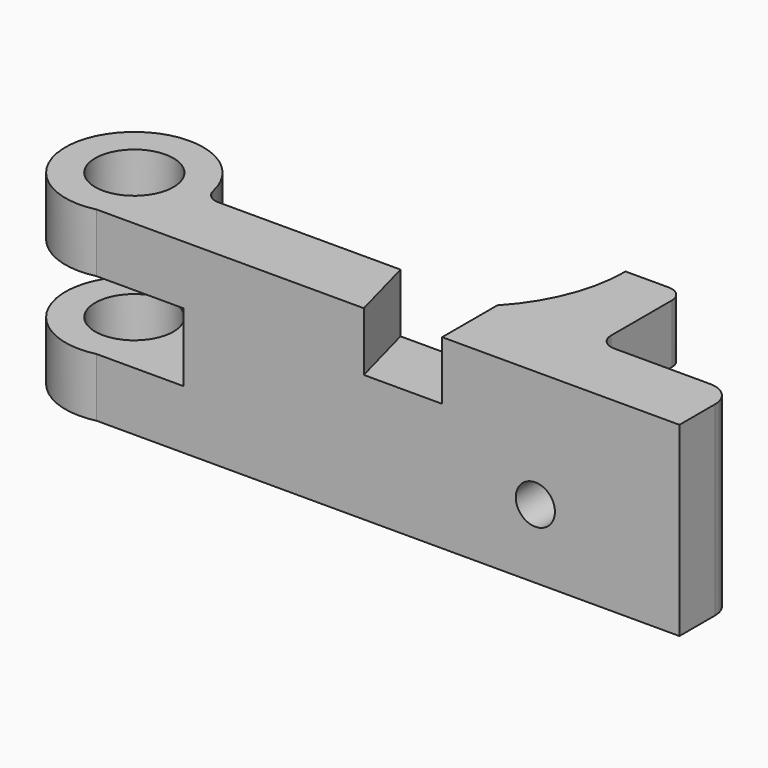
from build123d import *

# Parameters (mm, degrees)
F0_R      = 12.7
F1_DEPTH  = 60.325
F2_R      = 5.08
F3_R      = 7.874
F5_DEPTH  = 19.05
F7_DEPTH  = 41.275
F8_R      = 6.35
F9_DEPTH  = 22.951227039
F10_R     = 5.08
F11_R     = 5.08
F13_W     = 63.8135012672
F13_H     = 22.225
F14_DEPTH = 57.15


with BuildPart() as f1:
    # F0 (on Top) → F1 (new body)
    with BuildSketch(Plane.XY):
        with BuildLine():
            ThreePointArc((-113.8312659101, -44.9580233222), (-153.8868240783, -31.9212818085), (-131.0386, -67.3100233222))
            Line((-131.0386, -67.3100233222), (-44.3288590271, -67.3100233222))
            Line((-44.3288590271, -67.3100233222), (-50.3232590271, -44.9580233222))
            Line((-50.3232590271, -44.9580233222), (-113.8312659101, -44.9580233222))
        make_face()
        with Locations((-136.1752590271, -45.5562503612)):
            Circle(F0_R, mode=Mode.SUBTRACT)
        Polygon((-50.3232590271, -44.9580233222), (-44.3288590271, -67.3100233222), (-18.9288590271, -67.3100233222), (-18.9288590271, -44.9580233222), align=None)
        Polygon((-18.9288590271, -44.9580233222), (-18.9288590271, -67.3100233222), (58.0331409729, -67.3100233222), (58.0331409729, -44.9580233222), (13.9133409729, -44.9580233222), align=None)
        with BuildLine():
            ThreePointArc((-5.1366590271, -10.1600233222), (-8.7108436655, -28.8756656882), (-18.9288590271, -44.9580233222))
            Line((-18.9288590271, -44.9580233222), (13.9133409729, -44.9580233222))
            Line((13.9133409729, -44.9580233222), (13.9133409729, -10.1600233222))
            Line((13.9133409729, -10.1600233222), (-5.1366590271, -10.1600233222))
        make_face()
    extrude(amount=F1_DEPTH)

    # F2
    f2_edges = [f1.edges().sort_by_distance(p)[0] for p in [
        (13.913341, -10.160023, 30.1625),
    ]]
    fillet(f2_edges, radius=F2_R)

    # F3
    f3_edges = [f1.edges().sort_by_distance(p)[0] for p in [
        (58.033141, -44.958023, 30.1625),
    ]]
    fillet(f3_edges, radius=F3_R)

    # F4 (on face) → F5 (cut)
    with BuildSketch(Plane.XY.offset(60.325)):
        Polygon((-18.9288590271, -67.3100233222), (-18.9288590271, -44.9580233222), (-50.3232590271, -44.9580233222), (-44.3288590271, -67.3100233222), align=None)
    extrude(amount=-F5_DEPTH, mode=Mode.SUBTRACT)

    # F6 (on face) → F7 (cut)
    with BuildSketch(Plane(origin=(0, 0, 0), x_dir=(1, 0, 0), z_dir=(0, 0, -1))):
        with BuildLine():
            Line((13.9133409729, 15.2400233222), (13.9133409729, 44.9580233222))
            Line((13.9133409729, 44.9580233222), (-18.9288590271, 44.9580233222))
            ThreePointArc((-18.9288590271, 44.9580233222), (-8.7108436655, 28.8756656882), (-5.1366590271, 10.1600233222))
            Line((-5.1366590271, 10.1600233222), (8.8333409729, 10.1600233222))
            ThreePointArc((8.8333409729, 10.1600233222), (12.4254434213, 11.6479208738), (13.9133409729, 15.2400233222))
        make_face()
    extrude(amount=-F7_DEPTH, mode=Mode.SUBTRACT)

    # F8 (on face) → F9 (cut, through all)
    with BuildSketch(Plane(origin=(0, -44.9580233222, 0), x_dir=(-1, 0, 0), z_dir=(0, 1, 0))):
        with Locations((-11.2971409729, 22.352)):
            Circle(F8_R)
    extrude(amount=-F9_DEPTH, mode=Mode.SUBTRACT)

    # F10
    f10_edges = [f1.edges().sort_by_distance(p)[0] for p in [
        (13.913341, -44.958023, 50.8),
    ]]
    fillet(f10_edges, radius=F10_R)

    # F11
    f11_edges = [f1.edges().sort_by_distance(p)[0] for p in [
        (-113.831266, -44.958023, 30.1625),
    ]]
    fillet(f11_edges, radius=F11_R)

    # F13 (on offset) → F14 (cut)
    with BuildSketch(Plane.YZ.offset(-160.02)):
        with Locations((-45.4811556265, 30.1625)):
            Rectangle(F13_W, F13_H)
    extrude(amount=F14_DEPTH, mode=Mode.SUBTRACT)


solid = f1.part
